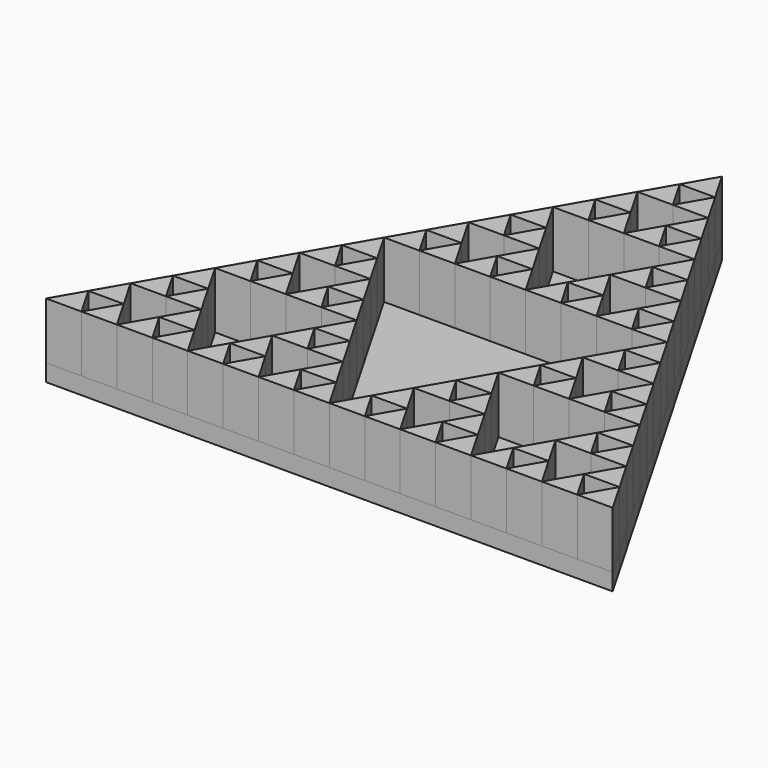
from build123d import *

# Parameters (mm, degrees)
F1_DEPTH = 12.7
F2_DEPTH = 3.81


with BuildPart() as f1:
    # F0 (on Top) → F1 (new body)
    with BuildSketch(Plane.XY):
        Polygon((3.96875, 103.11115), (0, 109.985226), (-3.96875, 103.11115), align=None)
        Polygon((0, 96.237073), (-3.96875, 103.11115), (-7.9375, 96.237073), align=None)
        Polygon((7.9375, 96.237073), (3.96875, 103.11115), (0, 96.237073), align=None)
        Polygon((11.90625, 89.362996), (7.9375, 96.237073), (3.96875, 89.362996), align=None)
        Polygon((15.875, 82.48892), (11.90625, 89.362996), (7.9375, 82.48892), align=None)
        Polygon((7.9375, 82.48892), (3.96875, 89.362996), (0, 82.48892), align=None)
        Polygon((0, 82.48892), (-3.96875, 89.362996), (-7.9375, 82.48892), align=None)
        Polygon((-3.96875, 89.362996), (-7.9375, 96.237073), (-11.90625, 89.362996), align=None)
        Polygon((-7.9375, 82.48892), (-11.90625, 89.362996), (-15.875, 82.48892), align=None)
        Polygon((-11.90625, 75.614843), (-15.875, 82.48892), (-19.84375, 75.614843), align=None)
        Polygon((-15.875, 68.740766), (-19.84375, 75.614843), (-23.8125, 68.740766), align=None)
        Polygon((-7.9375, 68.740766), (-11.90625, 75.614843), (-15.875, 68.740766), align=None)
        Polygon((19.84375, 75.614843), (15.875, 82.48892), (11.90625, 75.614843), align=None)
        Polygon((23.8125, 68.740766), (19.84375, 75.614843), (15.875, 68.740766), align=None)
        Polygon((15.875, 68.740766), (11.90625, 75.614843), (7.9375, 68.740766), align=None)
        Polygon((11.90625, 61.86669), (7.9375, 68.740766), (3.96875, 61.86669), align=None)
        Polygon((15.875, 54.992613), (11.90625, 61.86669), (7.9375, 54.992613), align=None)
        Polygon((7.9375, 54.992613), (3.96875, 61.86669), (0, 54.992613), align=None)
        Polygon((-3.96875, 61.86669), (-7.9375, 68.740766), (-11.90625, 61.86669), align=None)
        Polygon((0, 54.992613), (-3.96875, 61.86669), (-7.9375, 54.992613), align=None)
        Polygon((-7.9375, 54.992613), (-11.90625, 61.86669), (-15.875, 54.992613), align=None)
        Polygon((-15.875, 54.992613), (-19.84375, 61.86669), (-23.8125, 54.992613), align=None)
        Polygon((-19.84375, 61.86669), (-23.8125, 68.740766), (-27.78125, 61.86669), align=None)
        Polygon((-23.8125, 54.992613), (-27.78125, 61.86669), (-31.75, 54.992613), align=None)
        Polygon((27.78125, 61.86669), (23.8125, 68.740766), (19.84375, 61.86669), align=None)
        Polygon((31.75, 54.992613), (27.78125, 61.86669), (23.8125, 54.992613), align=None)
        Polygon((23.8125, 54.992613), (19.84375, 61.86669), (15.875, 54.992613), align=None)
        Polygon((-27.78125, 48.118536), (-31.75, 54.992613), (-35.71875, 48.118536), align=None)
        Polygon((-31.75, 41.24446), (-35.71875, 48.118536), (-39.6875, 41.24446), align=None)
        Polygon((-23.8125, 41.24446), (-27.78125, 48.118536), (-31.75, 41.24446), align=None)
        Polygon((-19.84375, 34.370383), (-23.8125, 41.24446), (-27.78125, 34.370383), align=None)
        Polygon((-23.8125, 27.496307), (-27.78125, 34.370383), (-31.75, 27.496307), align=None)
        Polygon((-15.875, 27.496307), (-19.84375, 34.370383), (-23.8125, 27.496307), align=None)
        Polygon((-39.6875, 27.496307), (-43.65625, 34.370383), (-47.625, 27.496307), align=None)
        Polygon((-31.75, 27.496307), (-35.71875, 34.370383), (-39.6875, 27.496307), align=None)
        Polygon((-35.71875, 34.370383), (-39.6875, 41.24446), (-43.65625, 34.370383), align=None)
        Polygon((-43.65625, 20.62223), (-47.625, 27.496307), (-51.59375, 20.62223), align=None)
        Polygon((-47.625, 13.748153), (-51.59375, 20.62223), (-55.5625, 13.748153), align=None)
        Polygon((-39.6875, 13.748153), (-43.65625, 20.62223), (-47.625, 13.748153), align=None)
        Polygon((-35.71875, 6.874077), (-39.6875, 13.748153), (-43.65625, 6.874077), align=None)
        Polygon((-31.75, 0), (-35.71875, 6.874077), (-39.6875, 0), align=None)
        Polygon((-39.6875, 0), (-43.65625, 6.874077), (-47.625, 0), align=None)
        Polygon((-47.625, 0), (-51.59375, 6.874077), (-55.5625, 0), align=None)
        Polygon((-51.59375, 6.874077), (-55.5625, 13.748153), (-59.53125, 6.874077), align=None)
        Polygon((-55.5625, 0), (-59.53125, 6.874077), (-63.5, 0), align=None)
        Polygon((-7.9375, 13.748153), (-11.90625, 20.62223), (-15.875, 13.748153), align=None)
        Polygon((-15.875, 13.748153), (-19.84375, 20.62223), (-23.8125, 13.748153), align=None)
        Polygon((-11.90625, 20.62223), (-15.875, 27.496307), (-19.84375, 20.62223), align=None)
        Polygon((-3.96875, 6.874077), (-7.9375, 13.748153), (-11.90625, 6.874077), align=None)
        Polygon((0, 0), (-3.96875, 6.874077), (-7.9375, 0), align=None)
        Polygon((-7.9375, 0), (-11.90625, 6.874077), (-15.875, 0), align=None)
        Polygon((-15.875, 0), (-19.84375, 6.874077), (-23.8125, 0), align=None)
        Polygon((-19.84375, 6.874077), (-23.8125, 13.748153), (-27.78125, 6.874077), align=None)
        Polygon((-23.8125, 0), (-27.78125, 6.874077), (-31.75, 0), align=None)
        Polygon((35.71875, 48.118536), (31.75, 54.992613), (27.78125, 48.118536), align=None)
        Polygon((39.6875, 41.24446), (35.71875, 48.118536), (31.75, 41.24446), align=None)
        Polygon((31.75, 41.24446), (27.78125, 48.118536), (23.8125, 41.24446), align=None)
        Polygon((27.78125, 34.370383), (23.8125, 41.24446), (19.84375, 34.370383), align=None)
        Polygon((31.75, 27.496307), (27.78125, 34.370383), (23.8125, 27.496307), align=None)
        Polygon((23.8125, 27.496307), (19.84375, 34.370383), (15.875, 27.496307), align=None)
        Polygon((19.84375, 20.62223), (15.875, 27.496307), (11.90625, 20.62223), align=None)
        Polygon((23.8125, 13.748153), (19.84375, 20.62223), (15.875, 13.748153), align=None)
        Polygon((15.875, 13.748153), (11.90625, 20.62223), (7.9375, 13.748153), align=None)
        Polygon((11.90625, 6.874077), (7.9375, 13.748153), (3.96875, 6.874077), align=None)
        Polygon((7.9375, 0), (3.96875, 6.874077), (0, 0), align=None)
        Polygon((15.875, 0), (11.90625, 6.874077), (7.9375, 0), align=None)
        Polygon((39.6875, 27.496307), (35.71875, 34.370383), (31.75, 27.496307), align=None)
        Polygon((43.65625, 34.370383), (39.6875, 41.24446), (35.71875, 34.370383), align=None)
        Polygon((47.625, 27.496307), (43.65625, 34.370383), (39.6875, 27.496307), align=None)
        Polygon((51.59375, 20.62223), (47.625, 27.496307), (43.65625, 20.62223), align=None)
        Polygon((47.625, 13.748153), (43.65625, 20.62223), (39.6875, 13.748153), align=None)
        Polygon((55.5625, 13.748153), (51.59375, 20.62223), (47.625, 13.748153), align=None)
        Polygon((59.53125, 6.874077), (55.5625, 13.748153), (51.59375, 6.874077), align=None)
        Polygon((63.5, 0), (59.53125, 6.874077), (55.5625, 0), align=None)
        Polygon((55.5625, 0), (51.59375, 6.874077), (47.625, 0), align=None)
        Polygon((47.625, 0), (43.65625, 6.874077), (39.6875, 0), align=None)
        Polygon((43.65625, 6.874077), (39.6875, 13.748153), (35.71875, 6.874077), align=None)
        Polygon((39.6875, 0), (35.71875, 6.874077), (31.75, 0), align=None)
        Polygon((31.75, 0), (27.78125, 6.874077), (23.8125, 0), align=None)
        Polygon((27.78125, 6.874077), (23.8125, 13.748153), (19.84375, 6.874077), align=None)
        Polygon((23.8125, 0), (19.84375, 6.874077), (15.875, 0), align=None)
    extrude(amount=F1_DEPTH)


with BuildPart() as f2:
    # F0 (on Top) → F2 (new body)
    with BuildSketch(Plane.XY):
        Polygon((3.96875, 103.11115), (0, 109.985226), (-3.96875, 103.11115), align=None)
        Polygon((3.96875, 103.11115), (-3.96875, 103.11115), (0, 96.237073), align=None)
        Polygon((7.9375, 96.237073), (3.96875, 103.11115), (0, 96.237073), align=None)
        Polygon((0, 96.237073), (-3.96875, 103.11115), (-7.9375, 96.237073), align=None)
        Polygon((11.90625, 89.362996), (7.9375, 96.237073), (3.96875, 89.362996), align=None)
        Polygon((0, 96.237073), (-7.9375, 96.237073), (-3.96875, 89.362996), (0, 82.48892), (3.96875, 89.362996), (7.9375, 96.237073), align=None)
        Polygon((7.9375, 82.48892), (11.90625, 89.362996), (3.96875, 89.362996), align=None)
        Polygon((15.875, 82.48892), (11.90625, 89.362996), (7.9375, 82.48892), align=None)
        Polygon((7.9375, 82.48892), (3.96875, 89.362996), (0, 82.48892), align=None)
        Polygon((0, 82.48892), (-3.96875, 89.362996), (-7.9375, 82.48892), align=None)
        Polygon((-3.96875, 89.362996), (-7.9375, 96.237073), (-11.90625, 89.362996), align=None)
        Polygon((-7.9375, 82.48892), (-11.90625, 89.362996), (-15.875, 82.48892), align=None)
        Polygon((-3.96875, 89.362996), (-11.90625, 89.362996), (-7.9375, 82.48892), align=None)
        Polygon((19.84375, 75.614843), (15.875, 82.48892), (11.90625, 75.614843), align=None)
        Polygon((15.875, 68.740766), (19.84375, 75.614843), (11.90625, 75.614843), align=None)
        Polygon((23.8125, 68.740766), (19.84375, 75.614843), (15.875, 68.740766), align=None)
        Polygon((15.875, 68.740766), (11.90625, 75.614843), (7.9375, 68.740766), align=None)
        Polygon((11.90625, 61.86669), (7.9375, 68.740766), (3.96875, 61.86669), align=None)
        Polygon((19.84375, 61.86669), (23.8125, 68.740766), (15.875, 68.740766), (7.9375, 68.740766), (11.90625, 61.86669), (15.875, 54.992613), align=None)
        Polygon((27.78125, 61.86669), (23.8125, 68.740766), (19.84375, 61.86669), align=None)
        Polygon((31.75, 54.992613), (27.78125, 61.86669), (23.8125, 54.992613), align=None)
        Polygon((23.8125, 54.992613), (27.78125, 61.86669), (19.84375, 61.86669), align=None)
        Polygon((23.8125, 54.992613), (19.84375, 61.86669), (15.875, 54.992613), align=None)
        Polygon((15.875, 54.992613), (11.90625, 61.86669), (7.9375, 54.992613), align=None)
        Polygon((11.90625, 61.86669), (3.96875, 61.86669), (7.9375, 54.992613), align=None)
        Polygon((7.9375, 54.992613), (3.96875, 61.86669), (0, 54.992613), align=None)
        Polygon((-7.9375, 82.48892), (-15.875, 82.48892), (-11.90625, 75.614843), (-7.9375, 68.740766), (-3.96875, 61.86669), (0, 54.992613), (3.96875, 61.86669), (7.9375, 68.740766), (11.90625, 75.614843), (15.875, 82.48892), (7.9375, 82.48892), (0, 82.48892), align=None)
        Polygon((-11.90625, 75.614843), (-15.875, 82.48892), (-19.84375, 75.614843), align=None)
        Polygon((-7.9375, 68.740766), (-11.90625, 75.614843), (-15.875, 68.740766), align=None)
        Polygon((-15.875, 68.740766), (-19.84375, 75.614843), (-23.8125, 68.740766), align=None)
        Polygon((-19.84375, 61.86669), (-23.8125, 68.740766), (-27.78125, 61.86669), align=None)
        Polygon((-23.8125, 54.992613), (-27.78125, 61.86669), (-31.75, 54.992613), align=None)
        Polygon((-11.90625, 75.614843), (-19.84375, 75.614843), (-15.875, 68.740766), align=None)
        Polygon((-19.84375, 61.86669), (-27.78125, 61.86669), (-23.8125, 54.992613), align=None)
        Polygon((-15.875, 54.992613), (-19.84375, 61.86669), (-23.8125, 54.992613), align=None)
        Polygon((-7.9375, 54.992613), (-11.90625, 61.86669), (-15.875, 54.992613), align=None)
        Polygon((-7.9375, 54.992613), (-3.96875, 61.86669), (-11.90625, 61.86669), align=None)
        Polygon((-3.96875, 61.86669), (-7.9375, 68.740766), (-11.90625, 61.86669), align=None)
        Polygon((0, 54.992613), (-3.96875, 61.86669), (-7.9375, 54.992613), align=None)
        Polygon((-15.875, 68.740766), (-23.8125, 68.740766), (-19.84375, 61.86669), (-15.875, 54.992613), (-11.90625, 61.86669), (-7.9375, 68.740766), align=None)
        Polygon((-27.78125, 48.118536), (-31.75, 54.992613), (-35.71875, 48.118536), align=None)
        Polygon((-27.78125, 48.118536), (-35.71875, 48.118536), (-31.75, 41.24446), align=None)
        Polygon((-23.8125, 41.24446), (-27.78125, 48.118536), (-31.75, 41.24446), align=None)
        Polygon((-31.75, 41.24446), (-35.71875, 48.118536), (-39.6875, 41.24446), align=None)
        Polygon((-35.71875, 34.370383), (-39.6875, 41.24446), (-43.65625, 34.370383), align=None)
        Polygon((-31.75, 27.496307), (-35.71875, 34.370383), (-39.6875, 27.496307), align=None)
        Polygon((-39.6875, 27.496307), (-43.65625, 34.370383), (-47.625, 27.496307), align=None)
        Polygon((-19.84375, 34.370383), (-23.8125, 41.24446), (-27.78125, 34.370383), align=None)
        Polygon((-15.875, 27.496307), (-19.84375, 34.370383), (-23.8125, 27.496307), align=None)
        Polygon((-23.8125, 27.496307), (-27.78125, 34.370383), (-31.75, 27.496307), align=None)
        Polygon((-31.75, 41.24446), (-39.6875, 41.24446), (-35.71875, 34.370383), (-31.75, 27.496307), (-27.78125, 34.370383), (-23.8125, 41.24446), align=None)
        Polygon((-23.8125, 27.496307), (-19.84375, 34.370383), (-27.78125, 34.370383), align=None)
        Polygon((-35.71875, 34.370383), (-43.65625, 34.370383), (-39.6875, 27.496307), align=None)
        Polygon((-43.65625, 20.62223), (-47.625, 27.496307), (-51.59375, 20.62223), align=None)
        Polygon((-39.6875, 13.748153), (-43.65625, 20.62223), (-47.625, 13.748153), align=None)
        Polygon((-47.625, 13.748153), (-51.59375, 20.62223), (-55.5625, 13.748153), align=None)
        Polygon((-43.65625, 20.62223), (-51.59375, 20.62223), (-47.625, 13.748153), align=None)
        Polygon((-51.59375, 6.874077), (-55.5625, 13.748153), (-59.53125, 6.874077), align=None)
        Polygon((-47.625, 0), (-51.59375, 6.874077), (-55.5625, 0), align=None)
        Polygon((-51.59375, 6.874077), (-59.53125, 6.874077), (-55.5625, 0), align=None)
        Polygon((-55.5625, 0), (-59.53125, 6.874077), (-63.5, 0), align=None)
        Polygon((-35.71875, 6.874077), (-39.6875, 13.748153), (-43.65625, 6.874077), align=None)
        Polygon((-31.75, 0), (-35.71875, 6.874077), (-39.6875, 0), align=None)
        Polygon((-39.6875, 0), (-43.65625, 6.874077), (-47.625, 0), align=None)
        Polygon((-39.6875, 0), (-35.71875, 6.874077), (-43.65625, 6.874077), align=None)
        Polygon((-47.625, 13.748153), (-55.5625, 13.748153), (-51.59375, 6.874077), (-47.625, 0), (-43.65625, 6.874077), (-39.6875, 13.748153), align=None)
        Polygon((-11.90625, 20.62223), (-15.875, 27.496307), (-19.84375, 20.62223), align=None)
        Polygon((-15.875, 13.748153), (-19.84375, 20.62223), (-23.8125, 13.748153), align=None)
        Polygon((-7.9375, 13.748153), (-11.90625, 20.62223), (-15.875, 13.748153), align=None)
        Polygon((-3.96875, 6.874077), (-7.9375, 13.748153), (-11.90625, 6.874077), align=None)
        Polygon((-23.8125, 0), (-27.78125, 6.874077), (-31.75, 0), align=None)
        Polygon((-19.84375, 6.874077), (-23.8125, 13.748153), (-27.78125, 6.874077), align=None)
        Polygon((-15.875, 0), (-19.84375, 6.874077), (-23.8125, 0), align=None)
        Polygon((-7.9375, 0), (-11.90625, 6.874077), (-15.875, 0), align=None)
        Polygon((0, 0), (-3.96875, 6.874077), (-7.9375, 0), align=None)
        Polygon((-7.9375, 0), (-3.96875, 6.874077), (-11.90625, 6.874077), align=None)
        Polygon((-11.90625, 6.874077), (-7.9375, 13.748153), (-15.875, 13.748153), (-23.8125, 13.748153), (-19.84375, 6.874077), (-15.875, 0), align=None)
        Polygon((-19.84375, 6.874077), (-27.78125, 6.874077), (-23.8125, 0), align=None)
        Polygon((-15.875, 13.748153), (-11.90625, 20.62223), (-19.84375, 20.62223), align=None)
        Polygon((-39.6875, 27.496307), (-47.625, 27.496307), (-43.65625, 20.62223), (-39.6875, 13.748153), (-35.71875, 6.874077), (-31.75, 0), (-27.78125, 6.874077), (-23.8125, 13.748153), (-19.84375, 20.62223), (-15.875, 27.496307), (-23.8125, 27.496307), (-31.75, 27.496307), align=None)
        Polygon((35.71875, 48.118536), (31.75, 54.992613), (27.78125, 48.118536), align=None)
        Polygon((39.6875, 41.24446), (35.71875, 48.118536), (31.75, 41.24446), align=None)
        Polygon((31.75, 41.24446), (27.78125, 48.118536), (23.8125, 41.24446), align=None)
        Polygon((27.78125, 34.370383), (23.8125, 41.24446), (19.84375, 34.370383), align=None)
        Polygon((43.65625, 34.370383), (39.6875, 41.24446), (35.71875, 34.370383), align=None)
        Polygon((47.625, 27.496307), (43.65625, 34.370383), (39.6875, 27.496307), align=None)
        Polygon((23.8125, 27.496307), (19.84375, 34.370383), (15.875, 27.496307), align=None)
        Polygon((31.75, 41.24446), (35.71875, 48.118536), (27.78125, 48.118536), align=None)
        Polygon((39.6875, 27.496307), (43.65625, 34.370383), (35.71875, 34.370383), align=None)
        Polygon((39.6875, 27.496307), (35.71875, 34.370383), (31.75, 27.496307), align=None)
        Polygon((31.75, 27.496307), (27.78125, 34.370383), (23.8125, 27.496307), align=None)
        Polygon((35.71875, 34.370383), (39.6875, 41.24446), (31.75, 41.24446), (23.8125, 41.24446), (27.78125, 34.370383), (31.75, 27.496307), align=None)
        Polygon((27.78125, 34.370383), (19.84375, 34.370383), (23.8125, 27.496307), align=None)
        Polygon((19.84375, 20.62223), (15.875, 27.496307), (11.90625, 20.62223), align=None)
        Polygon((23.8125, 13.748153), (19.84375, 20.62223), (15.875, 13.748153), align=None)
        Polygon((31.75, 0), (27.78125, 6.874077), (23.8125, 0), align=None)
        Polygon((23.8125, 0), (19.84375, 6.874077), (15.875, 0), align=None)
        Polygon((27.78125, 6.874077), (23.8125, 13.748153), (19.84375, 6.874077), align=None)
        Polygon((15.875, 13.748153), (11.90625, 20.62223), (7.9375, 13.748153), align=None)
        Polygon((11.90625, 6.874077), (7.9375, 13.748153), (3.96875, 6.874077), align=None)
        Polygon((7.9375, 0), (3.96875, 6.874077), (0, 0), align=None)
        Polygon((15.875, 0), (11.90625, 6.874077), (7.9375, 0), align=None)
        Polygon((19.84375, 20.62223), (11.90625, 20.62223), (15.875, 13.748153), align=None)
        Polygon((15.875, 13.748153), (7.9375, 13.748153), (11.90625, 6.874077), (15.875, 0), (19.84375, 6.874077), (23.8125, 13.748153), align=None)
        Polygon((11.90625, 6.874077), (3.96875, 6.874077), (7.9375, 0), align=None)
        Polygon((23.8125, 0), (27.78125, 6.874077), (19.84375, 6.874077), align=None)
        Polygon((51.59375, 20.62223), (47.625, 27.496307), (43.65625, 20.62223), align=None)
        Polygon((47.625, 13.748153), (43.65625, 20.62223), (39.6875, 13.748153), align=None)
        Polygon((43.65625, 6.874077), (39.6875, 13.748153), (35.71875, 6.874077), align=None)
        Polygon((39.6875, 0), (35.71875, 6.874077), (31.75, 0), align=None)
        Polygon((47.625, 0), (43.65625, 6.874077), (39.6875, 0), align=None)
        Polygon((55.5625, 0), (51.59375, 6.874077), (47.625, 0), align=None)
        Polygon((63.5, 0), (59.53125, 6.874077), (55.5625, 0), align=None)
        Polygon((59.53125, 6.874077), (55.5625, 13.748153), (51.59375, 6.874077), align=None)
        Polygon((55.5625, 13.748153), (51.59375, 20.62223), (47.625, 13.748153), align=None)
        Polygon((47.625, 13.748153), (51.59375, 20.62223), (43.65625, 20.62223), align=None)
        Polygon((51.59375, 6.874077), (55.5625, 13.748153), (47.625, 13.748153), (39.6875, 13.748153), (43.65625, 6.874077), (47.625, 0), align=None)
        Polygon((43.65625, 6.874077), (35.71875, 6.874077), (39.6875, 0), align=None)
        Polygon((55.5625, 0), (59.53125, 6.874077), (51.59375, 6.874077), align=None)
        Polygon((43.65625, 20.62223), (47.625, 27.496307), (39.6875, 27.496307), (31.75, 27.496307), (23.8125, 27.496307), (15.875, 27.496307), (19.84375, 20.62223), (23.8125, 13.748153), (27.78125, 6.874077), (31.75, 0), (35.71875, 6.874077), (39.6875, 13.748153), align=None)
        Polygon((-23.8125, 54.992613), (-31.75, 54.992613), (-27.78125, 48.118536), (-23.8125, 41.24446), (-19.84375, 34.370383), (-15.875, 27.496307), (-11.90625, 20.62223), (-7.9375, 13.748153), (-3.96875, 6.874077), (0, 0), (3.96875, 6.874077), (7.9375, 13.748153), (11.90625, 20.62223), (15.875, 27.496307), (19.84375, 34.370383), (23.8125, 41.24446), (27.78125, 48.118536), (31.75, 54.992613), (23.8125, 54.992613), (15.875, 54.992613), (7.9375, 54.992613), (0, 54.992613), (-7.9375, 54.992613), (-15.875, 54.992613), align=None)
    extrude(amount=-F2_DEPTH)


solid = Compound([f1.part, f2.part])
